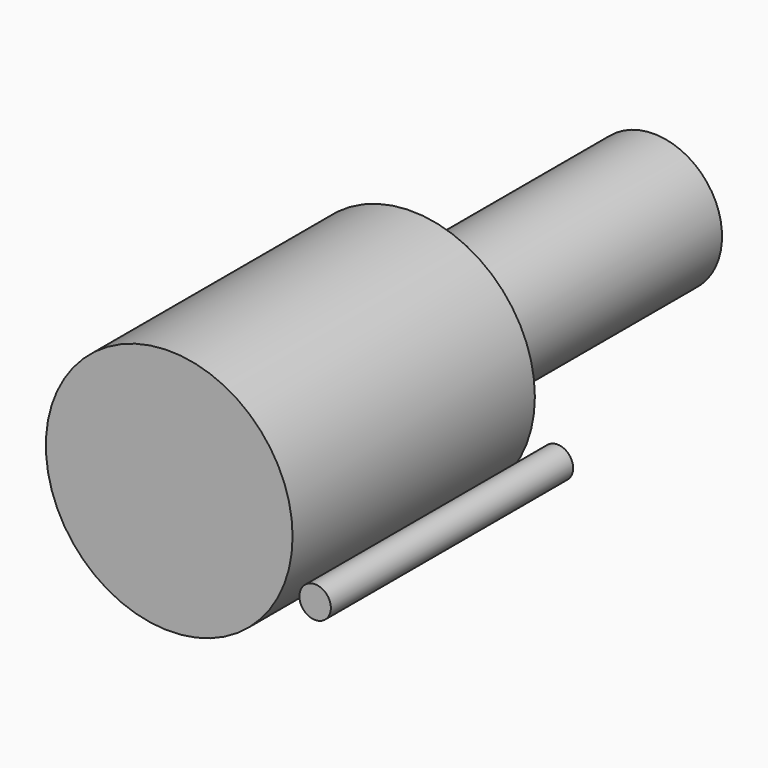
from build123d import *

# Parameters (mm, degrees)
F0_R     = 1.319098
F0_R_2   = 10.347363
F1_DEPTH = 25.4
F2_R     = 5.726159
F3_DEPTH = 25.4


with BuildPart() as f1:
    # F0 (on Front) → F1 (new body)
    with BuildSketch(Plane.XZ):
        Circle(F0_R)
        with Locations((-12.237806, 4.229143)):
            Circle(F0_R_2)
    extrude(amount=F1_DEPTH)

    # F2 (on face) → F3 (join)
    with BuildSketch(Plane(origin=(0, 0, 0), x_dir=(-1, 0, 0), z_dir=(0, 1, 0))):
        with Locations((12.237806, 4.229143)):
            Circle(F2_R)
    extrude(amount=F3_DEPTH)


solid = f1.part
